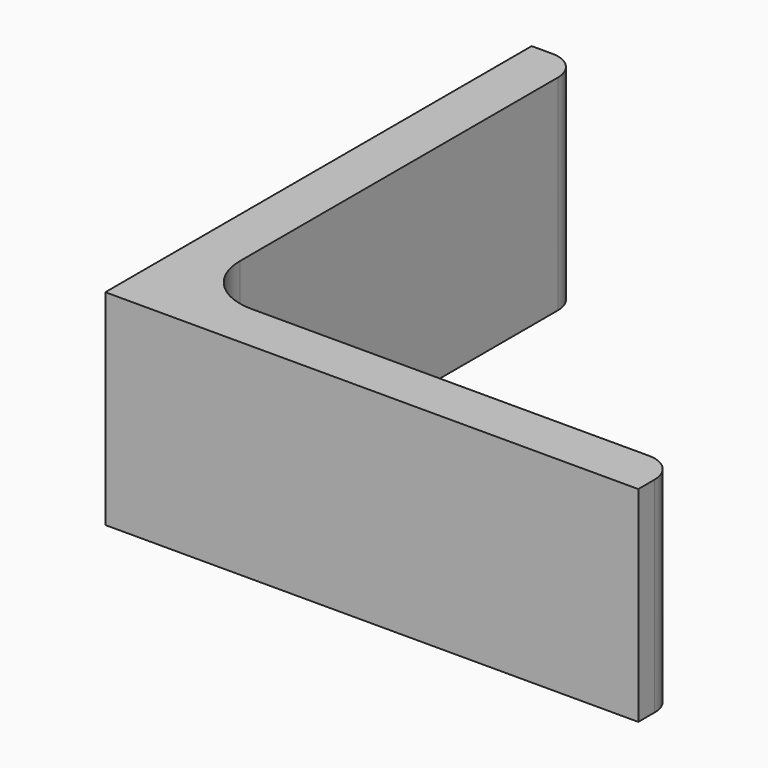
from build123d import *

# Parameters (mm, degrees)
EXTRUDE_DEPTH = 50


with BuildPart() as part:
    # Sketch → Extrude (new body)
    with BuildSketch(Plane.XY):
        with BuildLine():
            Line((0, 0), (130, 0))
            Line((130, 0), (130, 5))
            ThreePointArc((130, 5), (127.949747, 9.949747), (123, 12))
            Line((123, 12), (26, 12))
            ThreePointArc((12, 26), (16.100505, 16.100505), (26, 12))
            Line((12, 123), (12, 26))
            ThreePointArc((12, 123), (9.949747, 127.949747), (5, 130))
            Line((0, 130), (5, 130))
            Line((0, 0), (0, 130))
        make_face()
    extrude(amount=EXTRUDE_DEPTH)


solid = part.part
